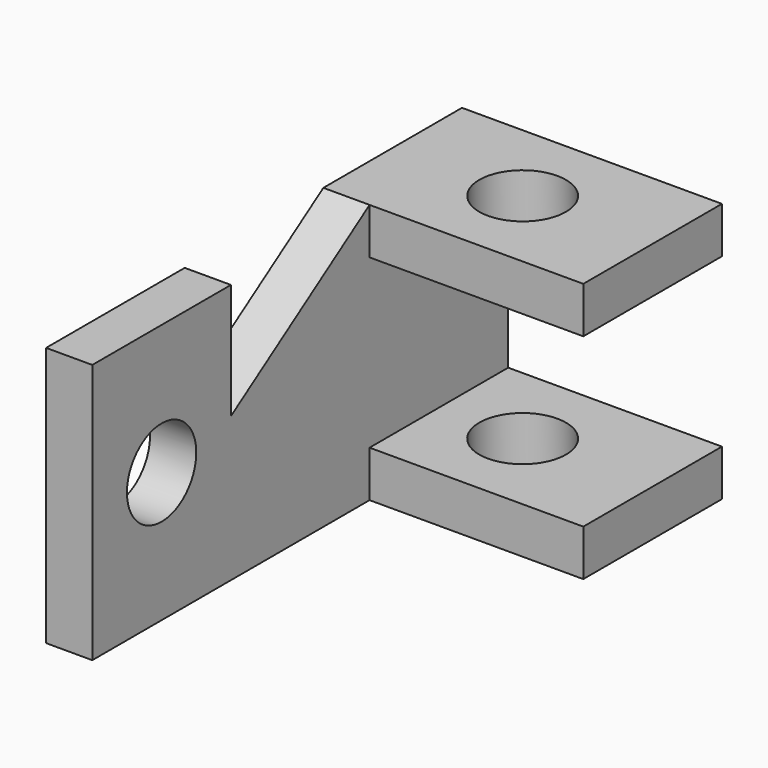
from build123d import *

# Parameters (mm, degrees)
F1_DEPTH = 8
F2_W     = 30
F2_H     = 8
F3_DEPTH = 37
F6_D     = 15
F7_D     = 15
F7_DEPTH = 8


with BuildPart() as f1:
    # F0 (on Right) → F1 (new body)
    with BuildSketch(Plane.YZ):
        Polygon((-60, 45), (-90, 45), (-90, 0), (0, 0), (0, 45), (-30, 45), (-60, 25), align=None)
    extrude(amount=F1_DEPTH)

    # F2 (on face) → F3 (join)
    with BuildSketch(Plane.YZ.offset(8)):
        with Locations((-15, 4)):
            Rectangle(F2_W, F2_H)
        with Locations((-15, 41)):
            Rectangle(F2_W, F2_H)
    extrude(amount=F3_DEPTH)

    # F6 (through all)
    with Locations(Plane.XY.offset(45)):
        with Locations((22.5, -15)):
            Hole(F6_D / 2)

    # F7
    with Locations(Plane.YZ.offset(8)):
        with Locations((-75, 22.5)):
            Hole(F7_D / 2, depth=F7_DEPTH)


solid = f1.part
